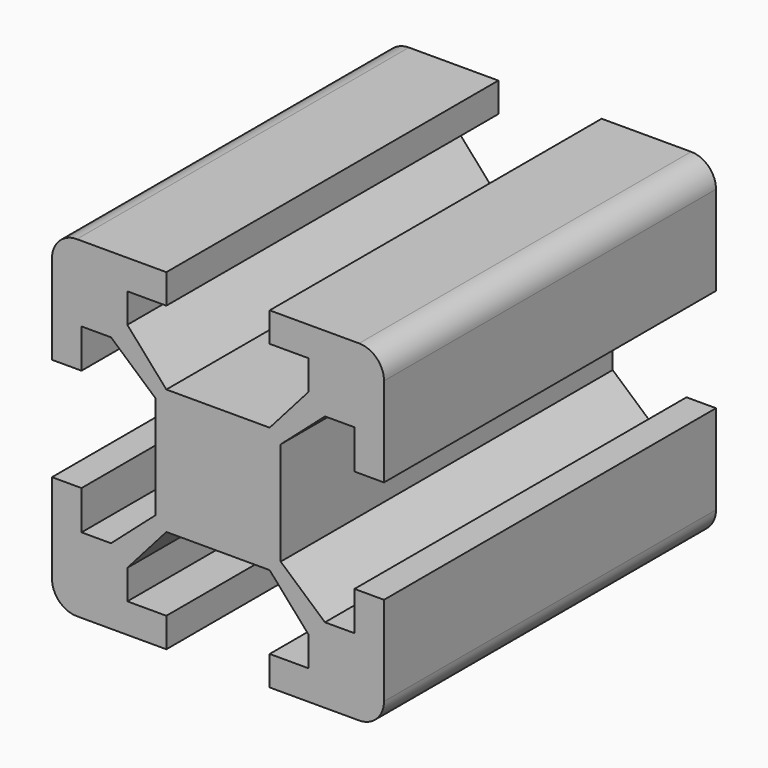
from build123d import *

# Parameters (mm, degrees)
F1_DEPTH = 25
F2_R     = 1.5


with BuildPart() as f1:
    # F0 (on Front) → F1 (new body)
    with BuildSketch(Plane.XZ):
        Polygon((10, 3.1115), (10, 10), (3.1115, 10), (3.1115, 8.222), (5.461, 8.222), (5.461, 6.444), (3.1115, 3.777), (0, 3.777), (-3.1115, 3.777), (-5.461, 6.444), (-5.461, 8.222), (-3.1115, 8.222), (-3.1115, 10), (-10, 10), (-10, 3.1115), (-8.222, 3.1115), (-8.222, 5.461), (-6.444, 5.461), (-3.777, 3.1115), (-3.777, 0), (-3.777, -3.1115), (-6.444, -5.461), (-8.222, -5.461), (-8.222, -3.1115), (-10, -3.1115), (-10, -10), (-3.1115, -10), (-3.1115, -8.222), (-5.461, -8.222), (-5.461, -6.444), (-3.1115, -3.777), (0, -3.777), (3.1115, -3.777), (5.461, -6.444), (5.461, -8.222), (3.1115, -8.222), (3.1115, -10), (10, -10), (10, -3.1115), (8.222, -3.1115), (8.222, -5.461), (6.444, -5.461), (3.777, -3.1115), (3.777, 0), (3.777, 3.1115), (6.444, 5.461), (8.222, 5.461), (8.222, 3.1115), align=None)
    extrude(amount=F1_DEPTH)

    # F2
    f2_edges = [f1.edges().sort_by_distance(p)[0] for p in [
        (-10, -12.5, 10),
        (10, -12.5, 10),
        (10, -12.5, -10),
        (-10, -12.5, -10),
    ]]
    fillet(f2_edges, radius=F2_R)


with BuildPart() as f3_1:
    # F3: copy of F1
    add(f1.part)


solid = Compound([f1.part, f3_1.part])
